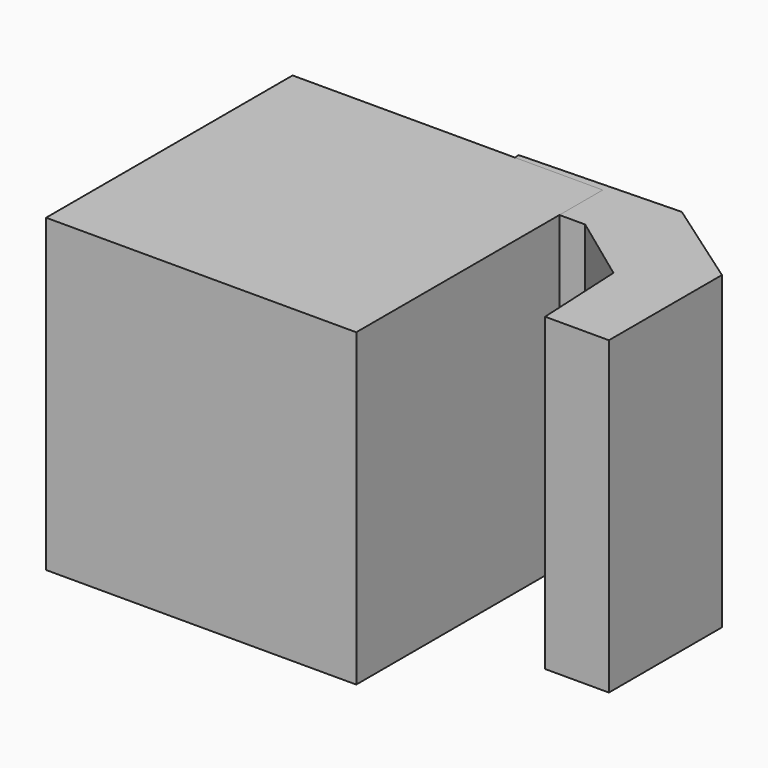
from build123d import *

# Parameters (mm, degrees)
RECTANGLE008_W   = 2.98
RECTANGLE008_H   = 3
EXTRUDE026_DEPTH = 3
EXTRUDE025_DEPTH = 3


with BuildPart() as extrude026:
    # Rectangle008 → Extrude026 (new body)
    with BuildSketch(Plane(origin=(22.53, 42.0889, 12.3974), x_dir=(0, 1, 0), z_dir=(1, 0, 0))):
        with Locations((1.49, -1.5)):
            Rectangle(RECTANGLE008_W, RECTANGLE008_H)
    extrude(amount=EXTRUDE026_DEPTH)


with BuildPart() as extrude026_1:
    # Extrude026 placement: moved
    add(extrude026.part.moved(Location((-6.56795, -1.09, 0))))


with BuildPart() as obj1:
    # DWire → Extrude025 (new body)
    with BuildSketch(Plane.XY):
        Polygon((24.153275, 43.285419), (24.109194, 43.858463), (25.652, 43.902542), (26.533607, 43.285419), (26.533607, 41.918934), (25.916481, 41.918934), (25.872402, 42.800537), (25.211199, 43.285419), align=None)
    extrude(amount=EXTRUDE025_DEPTH)


with BuildPart() as obj1_1:
    # Extrude025 placement: moved
    add(obj1.part.moved(Location((-6, 0.17, 9.39737))))

    # Fusion001: union Extrude026
    add(extrude026_1.part)


solid = obj1_1.part
